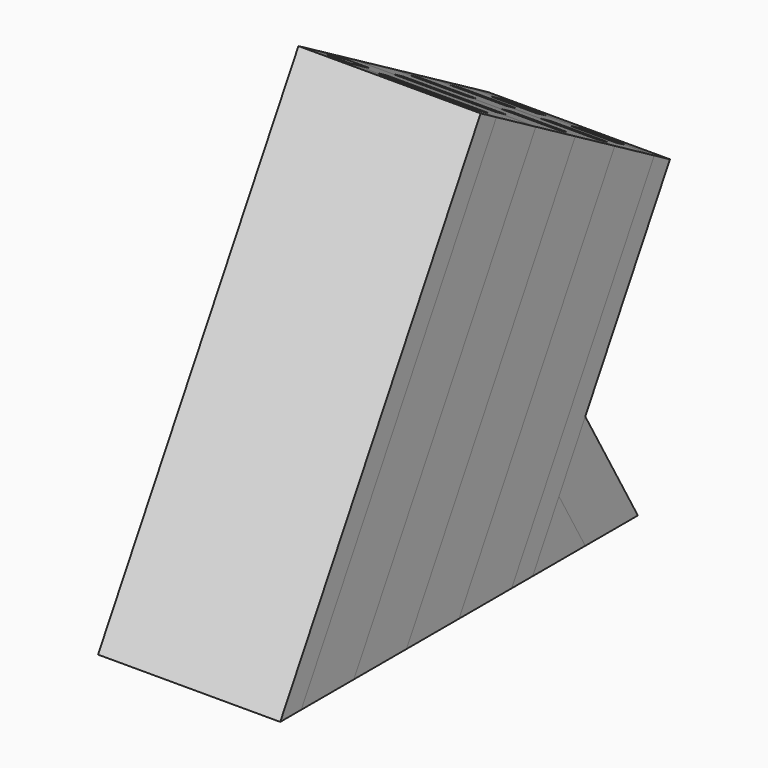
from build123d import *

# Parameters (mm, degrees)
F1_DEPTH  = 101.6
F2_DEPTH  = 101.6
F3_DEPTH  = 101.6
F4_DEPTH  = 101.6
F5_DEPTH  = 101.6
F6_DEPTH  = 101.6
F7_DEPTH  = 101.6
F8_DEPTH  = 101.6
F9_W      = 57.15
F9_H      = 7.9375
F9_W_2    = 14.2875
F9_H_2    = 14.2875
F9_H_3    = 7.9502
F9_W_3    = 31.75
F9_W_4    = 25.4
F10_DEPTH = 279.401


with BuildPart() as f1:
    # F0 (on Right) → F1 (new body)
    with BuildSketch(Plane.YZ):
        Polygon((139.7, 241.9674978174), (0, 0), (14.6646968374, 0), (150.6985226281, 235.6174978174), align=None)
    extrude(amount=F1_DEPTH)


with BuildPart() as f2:
    # F0 (on Right) → F2 (new body)
    with BuildSketch(Plane.YZ):
        Polygon((150.6985226281, 235.6174978174), (14.6646968374, 0), (51.326438931, 0), (178.1948291982, 219.7424978174), align=None)
    extrude(amount=F2_DEPTH)


with BuildPart() as f3:
    # F0 (on Right) → F3 (new body)
    with BuildSketch(Plane.YZ):
        Polygon((178.1948291982, 219.7424978174), (51.326438931, 0), (87.9881810245, 0), (205.6911357684, 203.8674978174), align=None)
    extrude(amount=F3_DEPTH)


with BuildPart() as f4:
    # F0 (on Right) → F4 (new body)
    with BuildSketch(Plane.YZ):
        Polygon((205.6911357684, 203.8674978174), (87.9881810245, 0), (124.649923118, 0), (233.1874423385, 187.9924978174), align=None)
    extrude(amount=F4_DEPTH)


with BuildPart() as f5:
    # F0 (on Right) → F5 (new body)
    with BuildSketch(Plane.YZ):
        Polygon((233.1874423385, 187.9924978174), (124.649923118, 0), (161.3116652116, 0), (260.6837489087, 172.1174978174), align=None)
    extrude(amount=F5_DEPTH)


with BuildPart() as f6:
    # F0 (on Right) → F6 (new body)
    with BuildSketch(Plane.YZ):
        Polygon((260.6837489087, 172.1174978174), (161.3116652116, 0), (175.976362049, 0), (194.3072330958, 31.75), (212.6381041425, 63.5), (271.6822715367, 165.7674978174), align=None)
    extrude(amount=F6_DEPTH)


with BuildPart() as f7:
    # F0 (on Right) → F7 (new body)
    with BuildSketch(Plane.YZ):
        Polygon((194.3072330958, 31.75), (175.976362049, 0), (212.6381041425, 0), align=None)
    extrude(amount=F7_DEPTH)


with BuildPart() as f8:
    # F0 (on Right) → F8 (new body)
    with BuildSketch(Plane.YZ):
        Polygon((212.6381041425, 63.5), (194.3072330958, 31.75), (212.6381041425, 0), (249.2998462361, 0), align=None)
    extrude(amount=F8_DEPTH)


with BuildPart() as f10_tool:
    # F9 (on face) → F10 (new body, through all)
    with BuildSketch(Plane(origin=(0, 139.7, 241.9674978174), x_dir=(1, 0, 0), z_dir=(0, 0.5, 0.8660254038))):
        with Locations((63.5, 16.66875)):
            Rectangle(F9_W, F9_H)
        with Locations((13.8995504521, 19.84375)):
            Rectangle(F9_W_2, F9_H_2)
        with Locations((50.8, 48.4251)):
            Rectangle(F9_W, F9_H_3)
        with Locations((76.2, 111.9251)):
            Rectangle(F9_W_3, F9_H_3)
        with Locations((25.4, 111.9251)):
            Rectangle(F9_W_3, F9_H_3)
        with Locations((73.025, 135.7249)):
            Rectangle(F9_W_4, F9_H_3)
        with Locations((28.575, 135.7249)):
            Rectangle(F9_W_4, F9_H_3)
        with Locations((76.2, 80.1751)):
            Rectangle(F9_W_3, F9_H_3)
        with Locations((25.4, 80.1751)):
            Rectangle(F9_W_3, F9_H_3)
    extrude(amount=-F10_DEPTH)


with BuildPart() as f2_1:
    add(f2.part)

    # F10: cut by f10_tool
    add(f10_tool.part, mode=Mode.SUBTRACT)


with BuildPart() as f3_1:
    add(f3.part)

    # F10: cut by f10_tool
    add(f10_tool.part, mode=Mode.SUBTRACT)


with BuildPart() as f4_1:
    add(f4.part)

    # F10: cut by f10_tool
    add(f10_tool.part, mode=Mode.SUBTRACT)


with BuildPart() as f5_1:
    add(f5.part)

    # F10: cut by f10_tool
    add(f10_tool.part, mode=Mode.SUBTRACT)


solid = Compound([f1.part, f6.part, f7.part, f8.part, f2_1.part, f3_1.part, f4_1.part, f5_1.part])
